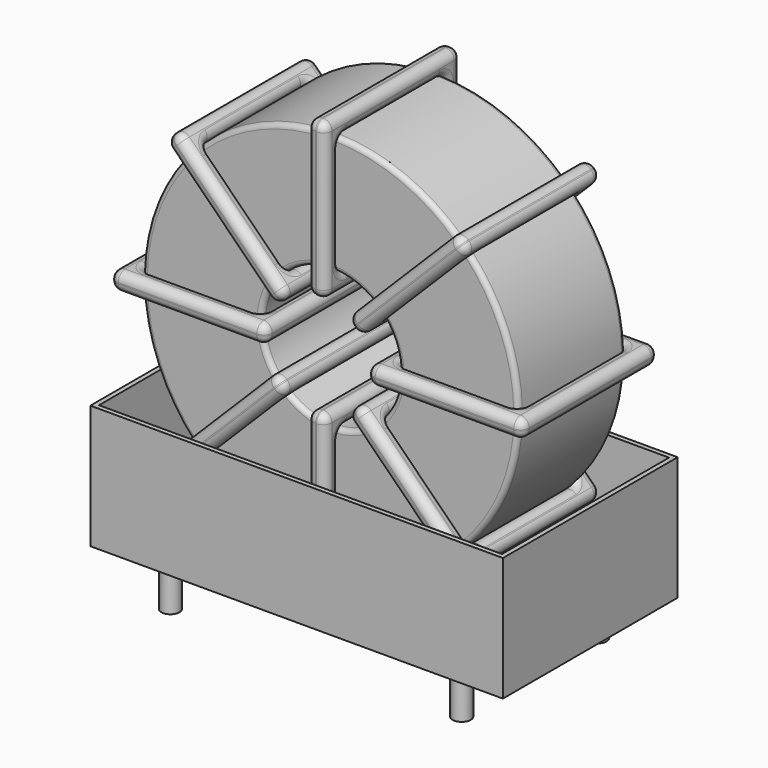
from build123d import *

# Parameters (mm, degrees)
SKETCH003_W   = 16.2933333333
SKETCH003_H   = 17.78
SKETCH003_W_2 = 12.4933333333
SKETCH003_H_2 = 13.98
PAD002_DEPTH  = 0.95
FILLET001_R   = 0.893
SKETCH_R      = 19.69
SKETCH_R_2    = 7.1966666667
PAD_DEPTH     = 6.99
FILLET_R      = 0.5
SKETCH001_R   = 0.95
PAD001_DEPTH  = 5
SKETCH008_W   = 43.18
SKETCH008_H   = 22.86
SKETCH008_W_2 = 42.18
SKETCH008_H_2 = 21.86
PAD007_DEPTH  = 12.954
SKETCH007_W   = 43.18
SKETCH007_H   = 22.86
PAD006_DEPTH  = 0.5
SKETCH006_W   = 16.2933333333
SKETCH006_H   = 17.78
SKETCH006_W_2 = 12.4933333333
SKETCH006_H_2 = 13.98
PAD005_DEPTH  = 0.95
FILLET004_R   = 0.893
SKETCH005_W   = 16.2933333333
SKETCH005_H   = 17.78
SKETCH005_W_2 = 12.4933333333
SKETCH005_H_2 = 13.98
PAD004_DEPTH  = 0.95
FILLET003_R   = 0.893
SKETCH004_W   = 16.2933333333
SKETCH004_H   = 17.78
SKETCH004_W_2 = 12.4933333333
SKETCH004_H_2 = 13.98
PAD003_DEPTH  = 0.95
FILLET002_R   = 0.893


with BuildPart() as fillet001:
    # Sketch003 → Pad002 (new body, symmetric)
    with BuildSketch(Plane(origin=(15.24, 0, 23.99), x_dir=(1, 0, 0), z_dir=(0, 0, -1))):
        with Locations((-13.4433333333, 8.89)):
            Rectangle(SKETCH003_W, SKETCH003_H)
        with Locations((-13.4433333333, 8.89)):
            Rectangle(SKETCH003_W_2, SKETCH003_H_2, mode=Mode.SUBTRACT)
        with Locations((13.4433333333, 8.89)):
            Rectangle(SKETCH003_W, SKETCH003_H)
        with Locations((13.4433333333, 8.89)):
            Rectangle(SKETCH003_W_2, SKETCH003_H_2, mode=Mode.SUBTRACT)
    extrude(amount=PAD002_DEPTH, both=True)

    # Fillet001
    fillet001_edges = [fillet001.edges().sort_by_distance(p)[0] for p in [
        (8.043333, -15.88, 23.99),
        (8.043333, -1.9, 23.99),
        (8.043333, -8.89, 24.94),
        (8.043333, -8.89, 23.04),
        (-6.35, -17.78, 23.99),
        (9.943333, -17.78, 23.99),
        (1.796667, -17.78, 24.94),
        (1.796667, -17.78, 23.04),
        (9.943333, 0, 23.99),
        (9.943333, -8.89, 24.94),
        (9.943333, -8.89, 23.04),
        (22.436667, -15.88, 23.99),
        (34.93, -15.88, 23.99),
        (28.683333, -15.88, 24.94),
        (28.683333, -15.88, 23.04),
        (34.93, -1.9, 23.99),
        (34.93, -8.89, 24.94),
        (34.93, -8.89, 23.04),
        (20.536667, -17.78, 23.99),
        (36.83, -17.78, 23.99),
        (28.683333, -17.78, 24.94),
        (28.683333, -17.78, 23.04),
        (36.83, 0, 23.99),
        (36.83, -8.89, 24.94),
        (36.83, -8.89, 23.04),
        (-4.45, -15.88, 23.99),
        (1.796667, -15.88, 24.94),
        (1.796667, -15.88, 23.04),
        (22.436667, -1.9, 23.99),
        (22.436667, -8.89, 24.94),
        (22.436667, -8.89, 23.04),
        (28.683333, -1.9, 24.94),
        (28.683333, -1.9, 23.04),
        (20.536667, 0, 23.99),
        (28.683333, 0, 24.94),
        (28.683333, 0, 23.04),
        (20.536667, -8.89, 24.94),
        (20.536667, -8.89, 23.04),
        (-6.35, 0, 23.99),
        (1.796667, 0, 24.94),
        (1.796667, 0, 23.04),
        (-6.35, -8.89, 24.94),
        (-6.35, -8.89, 23.04),
        (-4.45, -1.9, 23.99),
        (-4.45, -8.89, 24.94),
        (-4.45, -8.89, 23.04),
        (1.796667, -1.9, 24.94),
        (1.796667, -1.9, 23.04),
    ]]
    fillet(fillet001_edges, radius=FILLET001_R)


with BuildPart() as fillet_body:
    # Sketch → Pad (new body, symmetric)
    with BuildSketch(Plane(origin=(15.24, -8.89, 0), x_dir=(1, 0, 0), z_dir=(0, -1, 0))):
        with Locations((0, 23.99)):
            Circle(SKETCH_R)
        with Locations((0, 23.99)):
            Circle(SKETCH_R_2, mode=Mode.SUBTRACT)
    extrude(amount=PAD_DEPTH, both=True)

    # Fillet
    fillet_edges = [fillet_body.edges().sort_by_distance(p)[0] for p in [
        (8.043333, -15.88, 23.99),
        (-4.45, -15.88, 23.99),
        (-4.45, -1.9, 23.99),
    ]]
    fillet(fillet_edges, radius=FILLET_R)


with BuildPart() as pad001:
    # Sketch001 → Pad001 (new body)
    with BuildSketch(Plane.XY.offset(0.75)):
        Circle(SKETCH001_R)
        with Locations((30.48, -17.78)):
            Circle(SKETCH001_R)
        with Locations((0, -17.78)):
            Circle(SKETCH001_R)
        with Locations((30.48, 0)):
            Circle(SKETCH001_R)
    extrude(amount=-PAD001_DEPTH)


with BuildPart() as pad007:
    # Sketch008 → Pad007 (new body)
    with BuildSketch(Plane(origin=(15.24, 0, 0.5), x_dir=(1, 0, 0), z_dir=(0, 0, 1))):
        with Locations((0, -8.89)):
            Rectangle(SKETCH008_W, SKETCH008_H)
        with Locations((0, -8.89)):
            Rectangle(SKETCH008_W_2, SKETCH008_H_2, mode=Mode.SUBTRACT)
    extrude(amount=PAD007_DEPTH)


with BuildPart() as pad006:
    # Sketch007 → Pad006 (new body)
    with BuildSketch(Plane(origin=(15.24, 0, 0.5), x_dir=(1, 0, 0), z_dir=(0, 0, 1))):
        with Locations((0, -8.89)):
            Rectangle(SKETCH007_W, SKETCH007_H)
    extrude(amount=PAD006_DEPTH)


with BuildPart() as fillet004:
    # Sketch006 → Pad005 (new body, symmetric)
    with BuildSketch(Plane(origin=(15.24, 0, 23.99), x_dir=(0, 0, 1), z_dir=(1, 0, 0))):
        with Locations((-13.4433333333, 8.89)):
            Rectangle(SKETCH006_W, SKETCH006_H)
        with Locations((-13.4433333333, 8.89)):
            Rectangle(SKETCH006_W_2, SKETCH006_H_2, mode=Mode.SUBTRACT)
        with Locations((13.4433333333, 8.89)):
            Rectangle(SKETCH006_W, SKETCH006_H)
        with Locations((13.4433333333, 8.89)):
            Rectangle(SKETCH006_W_2, SKETCH006_H_2, mode=Mode.SUBTRACT)
    extrude(amount=PAD005_DEPTH, both=True)

    # Fillet004
    fillet004_edges = [fillet004.edges().sort_by_distance(p)[0] for p in [
        (15.24, -15.88, 16.793333),
        (15.24, -1.9, 16.793333),
        (14.29, -8.89, 16.793333),
        (16.19, -8.89, 16.793333),
        (15.24, -17.78, 2.4),
        (15.24, -17.78, 18.693333),
        (14.29, -17.78, 10.546667),
        (16.19, -17.78, 10.546667),
        (15.24, 0, 18.693333),
        (14.29, -8.89, 18.693333),
        (16.19, -8.89, 18.693333),
        (15.24, -15.88, 31.186667),
        (15.24, -15.88, 43.68),
        (14.29, -15.88, 37.433333),
        (16.19, -15.88, 37.433333),
        (15.24, -1.9, 43.68),
        (14.29, -8.89, 43.68),
        (16.19, -8.89, 43.68),
        (15.24, -17.78, 29.286667),
        (15.24, -17.78, 45.58),
        (14.29, -17.78, 37.433333),
        (16.19, -17.78, 37.433333),
        (15.24, 0, 45.58),
        (14.29, -8.89, 45.58),
        (16.19, -8.89, 45.58),
        (15.24, -15.88, 4.3),
        (14.29, -15.88, 10.546667),
        (16.19, -15.88, 10.546667),
        (15.24, -1.9, 31.186667),
        (14.29, -8.89, 31.186667),
        (16.19, -8.89, 31.186667),
        (14.29, -1.9, 37.433333),
        (16.19, -1.9, 37.433333),
        (15.24, 0, 29.286667),
        (14.29, 0, 37.433333),
        (16.19, 0, 37.433333),
        (14.29, -8.89, 29.286667),
        (16.19, -8.89, 29.286667),
        (15.24, 0, 2.4),
        (14.29, 0, 10.546667),
        (16.19, 0, 10.546667),
        (14.29, -8.89, 2.4),
        (16.19, -8.89, 2.4),
        (15.24, -1.9, 4.3),
        (14.29, -8.89, 4.3),
        (16.19, -8.89, 4.3),
        (14.29, -1.9, 10.546667),
        (16.19, -1.9, 10.546667),
    ]]
    fillet(fillet004_edges, radius=FILLET004_R)


with BuildPart() as fillet003:
    # Sketch005 → Pad004 (new body, symmetric)
    with BuildSketch(Plane(origin=(15.24, 0, 23.99), x_dir=(0.7071075991, 0, -0.7071059633), z_dir=(-0.7071059633, 0, -0.7071075991))):
        with Locations((-13.4433333333, 8.89)):
            Rectangle(SKETCH005_W, SKETCH005_H)
        with Locations((-13.4433333333, 8.89)):
            Rectangle(SKETCH005_W_2, SKETCH005_H_2, mode=Mode.SUBTRACT)
        with Locations((13.4433333333, 8.89)):
            Rectangle(SKETCH005_W, SKETCH005_H)
        with Locations((13.4433333333, 8.89)):
            Rectangle(SKETCH005_W_2, SKETCH005_H_2, mode=Mode.SUBTRACT)
    extrude(amount=PAD004_DEPTH, both=True)

    # Fillet003
    fillet003_edges = [fillet003.edges().sort_by_distance(p)[0] for p in [
        (10.151182, -15.88, 29.078806),
        (10.151182, -1.9, 29.078806),
        (10.822933, -8.89, 29.750558),
        (9.479432, -8.89, 28.407054),
        (-0.026453, -17.78, 39.256418),
        (11.494687, -17.78, 27.735305),
        (6.405868, -17.78, 34.167613),
        (5.062366, -17.78, 32.824109),
        (11.494687, 0, 27.735305),
        (12.166437, -8.89, 28.407057),
        (10.822936, -8.89, 27.063552),
        (20.328818, -15.88, 18.901194),
        (29.162949, -15.88, 10.067084),
        (25.417634, -15.88, 15.155891),
        (24.074132, -15.88, 13.812387),
        (29.162949, -1.9, 10.067084),
        (29.834699, -8.89, 10.738836),
        (28.491198, -8.89, 9.395331),
        (18.985313, 0, 20.244695),
        (18.985313, -17.78, 20.244695),
        (19.657064, -8.89, 20.916448),
        (18.313563, -8.89, 19.572943),
        (30.506453, 0, 8.723582),
        (25.417634, 0, 15.155891),
        (24.074132, 0, 13.812387),
        (1.317051, -15.88, 37.912916),
        (6.405868, -15.88, 34.167613),
        (5.062366, -15.88, 32.824109),
        (20.328818, -1.9, 18.901194),
        (21.000568, -8.89, 19.572946),
        (19.657067, -8.89, 18.229442),
        (25.417634, -1.9, 15.155891),
        (24.074132, -1.9, 13.812387),
        (30.506453, -17.78, 8.723582),
        (31.178204, -8.89, 9.395334),
        (29.834702, -8.89, 8.05183),
        (25.417634, -17.78, 15.155891),
        (24.074132, -17.78, 13.812387),
        (-0.026453, 0, 39.256418),
        (6.405868, 0, 34.167613),
        (5.062366, 0, 32.824109),
        (0.645298, -8.89, 39.92817),
        (-0.698204, -8.89, 38.584666),
        (1.317051, -1.9, 37.912916),
        (1.988802, -8.89, 38.584669),
        (0.645301, -8.89, 37.241164),
        (6.405868, -1.9, 34.167613),
        (5.062366, -1.9, 32.824109),
    ]]
    fillet(fillet003_edges, radius=FILLET003_R)


with BuildPart() as obj1:
    # Sketch004 → Pad003 (new body, symmetric)
    with BuildSketch(Plane(origin=(15.24, 0, 23.99), x_dir=(0.7071075991, 0, 0.7071059633), z_dir=(0.7071059633, 0, -0.7071075991))):
        with Locations((-13.4433333333, 8.89)):
            Rectangle(SKETCH004_W, SKETCH004_H)
        with Locations((-13.4433333333, 8.89)):
            Rectangle(SKETCH004_W_2, SKETCH004_H_2, mode=Mode.SUBTRACT)
        with Locations((13.4433333333, 8.89)):
            Rectangle(SKETCH004_W, SKETCH004_H)
        with Locations((13.4433333333, 8.89)):
            Rectangle(SKETCH004_W_2, SKETCH004_H_2, mode=Mode.SUBTRACT)
    extrude(amount=PAD003_DEPTH, both=True)

    # Fillet002
    fillet002_edges = [obj1.edges().sort_by_distance(p)[0] for p in [
        (10.151182, -15.88, 18.901194),
        (10.151182, -1.9, 18.901194),
        (9.479432, -8.89, 19.572946),
        (10.822933, -8.89, 18.229442),
        (-0.026453, -17.78, 8.723582),
        (11.494687, -17.78, 20.244695),
        (5.062366, -17.78, 15.155891),
        (6.405868, -17.78, 13.812387),
        (11.494687, 0, 20.244695),
        (10.822936, -8.89, 20.916448),
        (12.166437, -8.89, 19.572943),
        (20.328818, -1.9, 29.078806),
        (20.328818, -15.88, 29.078806),
        (19.657067, -8.89, 29.750558),
        (21.000568, -8.89, 28.407054),
        (29.162949, -1.9, 37.912916),
        (24.074132, -1.9, 34.167613),
        (25.417634, -1.9, 32.824109),
        (18.985313, -17.78, 27.735305),
        (30.506453, -17.78, 39.256418),
        (24.074132, -17.78, 34.167613),
        (25.417634, -17.78, 32.824109),
        (30.506453, 0, 39.256418),
        (29.834702, -8.89, 39.92817),
        (31.178204, -8.89, 38.584666),
        (1.317051, -15.88, 10.067084),
        (5.062366, -15.88, 15.155891),
        (6.405868, -15.88, 13.812387),
        (29.162949, -15.88, 37.912916),
        (24.074132, -15.88, 34.167613),
        (25.417634, -15.88, 32.824109),
        (28.491198, -8.89, 38.584669),
        (29.834699, -8.89, 37.241164),
        (18.985313, 0, 27.735305),
        (24.074132, 0, 34.167613),
        (25.417634, 0, 32.824109),
        (18.313563, -8.89, 28.407057),
        (19.657064, -8.89, 27.063552),
        (-0.026453, 0, 8.723582),
        (5.062366, 0, 15.155891),
        (6.405868, 0, 13.812387),
        (-0.698204, -8.89, 9.395334),
        (0.645298, -8.89, 8.05183),
        (1.317051, -1.9, 10.067084),
        (0.645301, -8.89, 10.738836),
        (1.988802, -8.89, 9.395331),
        (5.062366, -1.9, 15.155891),
        (6.405868, -1.9, 13.812387),
    ]]
    fillet(fillet002_edges, radius=FILLET002_R)

    # obj1: union Fillet001, Fillet body, Pad001, Pad007, Pad006, Fillet004, Fillet003
    add(fillet001.part)
    add(fillet_body.part)
    add(pad001.part)
    add(pad007.part)
    add(pad006.part)
    add(fillet004.part)
    add(fillet003.part)


solid = obj1.part
